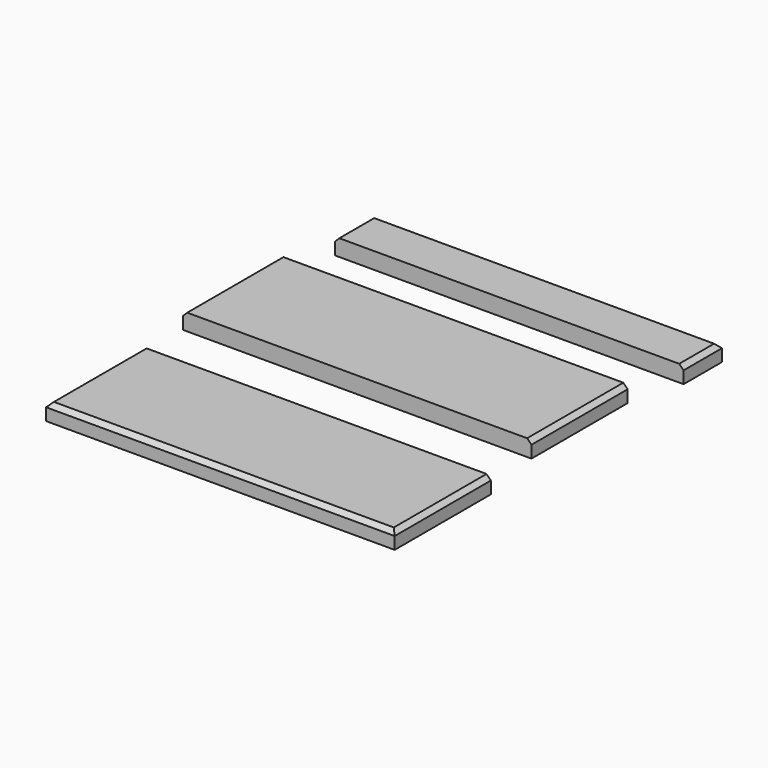
from build123d import *

# Parameters (mm, degrees)
F0_W     = 400
F0_H     = 55
F0_H_2   = 138
F1_DEPTH = 19
F2_SIZE  = 5


with BuildPart() as f1:
    # F0 (on Top) → F1 (new body)
    with BuildSketch(Plane.XY):
        with Locations((-71.778989, 98.805595)):
            Rectangle(F0_W, F0_H)
        with Locations((-87.982076, -57.61621)):
            Rectangle(F0_W, F0_H_2)
        with Locations((-73.0726, -272.453195)):
            Rectangle(F0_W, F0_H_2)
    extrude(amount=F1_DEPTH)

    # F2
    f2_edges = [f1.edges().sort_by_distance(p)[0] for p in [
        (-273.0726, -272.453195, 19),
        (-73.0726, -341.453195, 19),
        (126.9274, -272.453195, 19),
        (112.017924, -57.61621, 19),
        (-287.982076, -57.61621, 19),
        (-271.778989, 98.805595, 19),
        (-71.778989, 126.305595, 19),
        (128.221011, 98.805595, 19),
    ]]
    chamfer(f2_edges, length=F2_SIZE)


solid = f1.part
